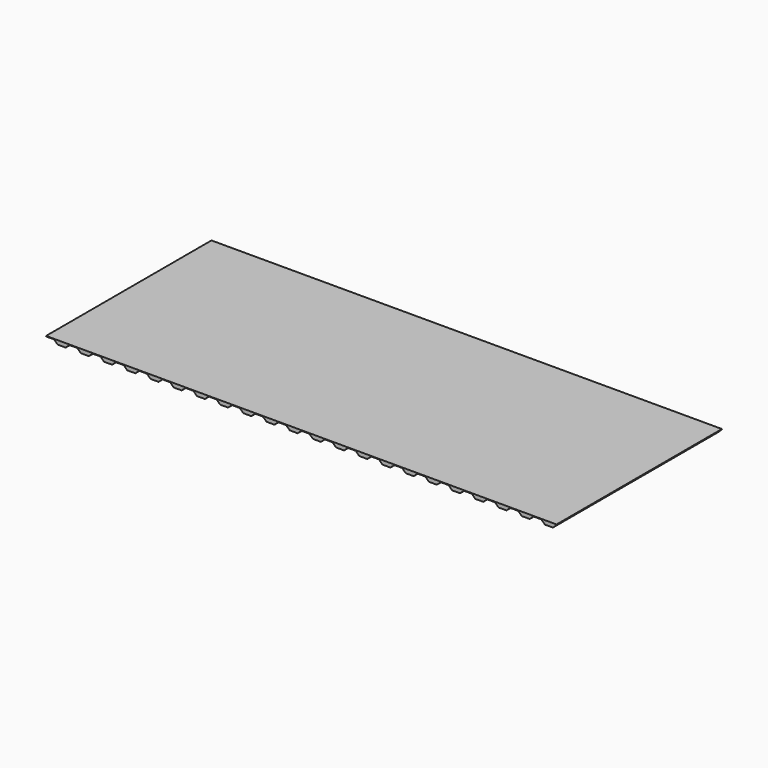
from build123d import *

# Parameters (mm, degrees)
F1_DEPTH = 16.3


with BuildPart() as f1:
    # F0 (on Front) → F1 (new body)
    with BuildSketch(Plane.XZ):
        Polygon((-3.405686, 0.990338), (-5.235078, 0.990338), (-5.231773, 0.948936), (-4.601518, 0.948936), (-4.317693, 0.678378), (-3.686916, 0.678378), (-3.402381, 0.948936), align=None)
        Polygon((-3.398952, 0.990338), (-3.405686, 0.990338), (-3.402381, 0.948936), align=None)
        Polygon((-1.576294, 0.990338), (-3.398952, 0.990338), (-3.402381, 0.948936), (-2.772126, 0.948936), (-2.4883, 0.678378), (-1.857524, 0.678378), (-1.572988, 0.948936), align=None)
        Polygon((-1.56956, 0.990338), (-1.576294, 0.990338), (-1.572988, 0.948936), align=None)
        Polygon((0.253099, 0.990338), (-1.56956, 0.990338), (-1.572988, 0.948936), (-0.942733, 0.948936), (-0.658908, 0.678378), (-0.028131, 0.678378), (0.256404, 0.948936), align=None)
        Polygon((0.259832, 0.990338), (0.253099, 0.990338), (0.256404, 0.948936), align=None)
        Polygon((2.082491, 0.990338), (0.259832, 0.990338), (0.256404, 0.948936), (0.886659, 0.948936), (1.170484, 0.678378), (1.801261, 0.678378), (2.085796, 0.948936), align=None)
        Polygon((2.089224, 0.990338), (2.082491, 0.990338), (2.085796, 0.948936), align=None)
        Polygon((3.911883, 0.990338), (2.089224, 0.990338), (2.085796, 0.948936), (2.716051, 0.948936), (2.999876, 0.678378), (3.630653, 0.678378), (3.915188, 0.948936), align=None)
        Polygon((3.918617, 0.990338), (3.911883, 0.990338), (3.915188, 0.948936), align=None)
        Polygon((5.741275, 0.990338), (3.918617, 0.990338), (3.915188, 0.948936), (4.545443, 0.948936), (4.829269, 0.678378), (5.460045, 0.678378), (5.744581, 0.948936), align=None)
        Polygon((5.748009, 0.990338), (5.741275, 0.990338), (5.744581, 0.948936), align=None)
        Polygon((7.570668, 0.990338), (5.748009, 0.990338), (5.744581, 0.948936), (6.374836, 0.948936), (6.658661, 0.678378), (7.289438, 0.678378), (7.573973, 0.948936), align=None)
        Polygon((7.577401, 0.990338), (7.570668, 0.990338), (7.573973, 0.948936), align=None)
        Polygon((9.40006, 0.990338), (7.577401, 0.990338), (7.573973, 0.948936), (8.204228, 0.948936), (8.488053, 0.678378), (9.11883, 0.678378), (9.403365, 0.948936), align=None)
        Polygon((9.406793, 0.990338), (9.40006, 0.990338), (9.403365, 0.948936), align=None)
        Polygon((11.229452, 0.990338), (9.406793, 0.990338), (9.403365, 0.948936), (10.03362, 0.948936), (10.317445, 0.678378), (10.948222, 0.678378), (11.232758, 0.948936), align=None)
        Polygon((11.236186, 0.990338), (11.229452, 0.990338), (11.232758, 0.948936), align=None)
        Polygon((13.058844, 0.990338), (11.236186, 0.990338), (11.232758, 0.948936), (11.863013, 0.948936), (12.146838, 0.678378), (12.777615, 0.678378), (13.06215, 0.948936), align=None)
        Polygon((13.065578, 0.990338), (13.058844, 0.990338), (13.06215, 0.948936), align=None)
        Polygon((14.888237, 0.990338), (13.065578, 0.990338), (13.06215, 0.948936), (13.692405, 0.948936), (13.97623, 0.678378), (14.607007, 0.678378), (14.891542, 0.948936), align=None)
        Polygon((14.89497, 0.990338), (14.888237, 0.990338), (14.891542, 0.948936), align=None)
        Polygon((16.717629, 0.990338), (14.89497, 0.990338), (14.891542, 0.948936), (15.521797, 0.948936), (15.805622, 0.678378), (16.436399, 0.678378), (16.720934, 0.948936), align=None)
        Polygon((16.724363, 0.990338), (16.717629, 0.990338), (16.720934, 0.948936), align=None)
        Polygon((18.547021, 0.990338), (16.724363, 0.990338), (16.720934, 0.948936), (17.351189, 0.948936), (17.635015, 0.678378), (18.265791, 0.678378), (18.550327, 0.948936), align=None)
        Polygon((18.553755, 0.990338), (18.547021, 0.990338), (18.550327, 0.948936), align=None)
        Polygon((20.376414, 0.990338), (18.553755, 0.990338), (18.550327, 0.948936), (19.180582, 0.948936), (19.464407, 0.678378), (20.095184, 0.678378), (20.379719, 0.948936), align=None)
        Polygon((20.383147, 0.990338), (20.376414, 0.990338), (20.379719, 0.948936), align=None)
        Polygon((22.205806, 0.990338), (20.383147, 0.990338), (20.379719, 0.948936), (21.009974, 0.948936), (21.293799, 0.678378), (21.924576, 0.678378), (22.209111, 0.948936), align=None)
        Polygon((22.212539, 0.990338), (22.205806, 0.990338), (22.209111, 0.948936), align=None)
        Polygon((24.035198, 0.990338), (22.212539, 0.990338), (22.209111, 0.948936), (22.839366, 0.948936), (23.123191, 0.678378), (23.753968, 0.678378), (24.038504, 0.948936), align=None)
        Polygon((24.041932, 0.990338), (24.035198, 0.990338), (24.038504, 0.948936), align=None)
        Polygon((25.86459, 0.990338), (24.041932, 0.990338), (24.038504, 0.948936), (24.668759, 0.948936), (24.952584, 0.678378), (25.583361, 0.678378), (25.867896, 0.948936), align=None)
        Polygon((25.871324, 0.990338), (25.86459, 0.990338), (25.867896, 0.948936), align=None)
        Polygon((27.693983, 0.990338), (25.871324, 0.990338), (25.867896, 0.948936), (26.498151, 0.948936), (26.781976, 0.678378), (27.412753, 0.678378), (27.697288, 0.948936), align=None)
        Polygon((27.700716, 0.990338), (27.693983, 0.990338), (27.697288, 0.948936), align=None)
        Polygon((29.523375, 0.990338), (27.700716, 0.990338), (27.697288, 0.948936), (28.327543, 0.948936), (28.611368, 0.678378), (29.242145, 0.678378), (29.52668, 0.948936), align=None)
        Polygon((29.530108, 0.990338), (29.523375, 0.990338), (29.52668, 0.948936), align=None)
        Polygon((31.352767, 0.990338), (29.530108, 0.990338), (29.52668, 0.948936), (30.156935, 0.948936), (30.440761, 0.678378), (31.071537, 0.678378), (31.356073, 0.948936), align=None)
        Polygon((31.359501, 0.990338), (31.352767, 0.990338), (31.356073, 0.948936), align=None)
        Polygon((33.18216, 0.990338), (31.359501, 0.990338), (31.356073, 0.948936), (31.986328, 0.948936), (32.270153, 0.678378), (32.90093, 0.678378), (33.185465, 0.948936), align=None)
        Polygon((33.188893, 0.990338), (33.18216, 0.990338), (33.185465, 0.948936), align=None)
        Polygon((35.018285, 0.990338), (33.188893, 0.990338), (33.185465, 0.948936), (33.81572, 0.948936), (34.099545, 0.678378), (34.730322, 0.678378), (35.014857, 0.948936), align=None)
    extrude(amount=F1_DEPTH)


solid = f1.part
